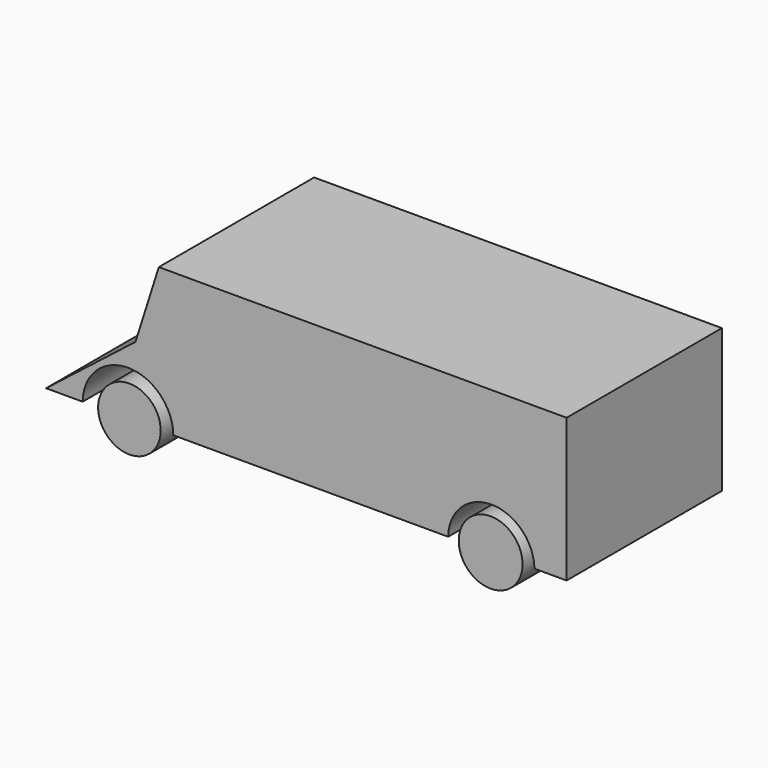
from build123d import *

# Parameters (mm, degrees)
F0_R     = 19.847968
F0_R_2   = 20.247283
F1_DEPTH = 123.2


with BuildPart() as f1:
    # F0 (on Front) → F1 (new body)
    with BuildSketch(Plane.XZ):
        with Locations((-114.720657, -44.326164)):
            Circle(F0_R)
        with Locations((114.528932, -44.326164)):
            Circle(F0_R_2)
        with BuildLine():
            ThreePointArc((-144.400612, -44.326164), (-115.615651, -15.918813), (-86.830691, -44.326164))
            Line((-86.830691, -44.326164), (87.55587, -44.326164))
            ThreePointArc((87.55587, -44.326164), (114.943504, -17.382743), (142.331138, -44.326164))
            Line((142.331138, -44.326164), (162.732124, -44.326164))
            Line((162.732124, -44.326164), (162.732124, 46.617448))
            Line((162.732124, 46.617448), (-96.053064, 46.617448))
            Line((-96.053064, 46.617448), (-110.864736, 0))
            Line((-110.864736, 0), (-167.596266, -44.326164))
            Line((-167.596266, -44.326164), (-144.400612, -44.326164))
        make_face()
    extrude(amount=F1_DEPTH)


solid = f1.part
